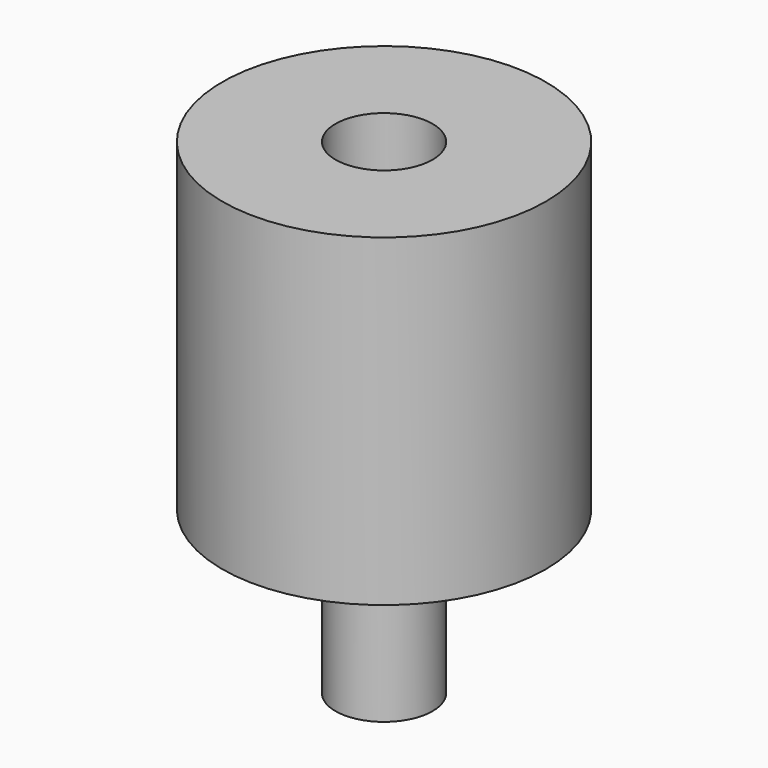
from build123d import *

# Parameters (mm, degrees)
F0_R     = 5
F1_DEPTH = 10
F2_R     = 1.5
F3_DEPTH = 7
F4_R     = 1.5
F5_DEPTH = 5


with BuildPart() as f1:
    # F0 (on Top) → F1 (new body)
    with BuildSketch(Plane.XY):
        Circle(F0_R)
    extrude(amount=F1_DEPTH)

    # F2 (on face) → F3 (cut)
    with BuildSketch(Plane.XY.offset(10)):
        Circle(F2_R)
    extrude(amount=-F3_DEPTH, mode=Mode.SUBTRACT)

    # F4 (on face) → F5 (join)
    with BuildSketch(Plane(origin=(0, 0, 0), x_dir=(1, 0, 0), z_dir=(0, 0, -1))):
        Circle(F4_R)
    extrude(amount=F5_DEPTH)


solid = f1.part
